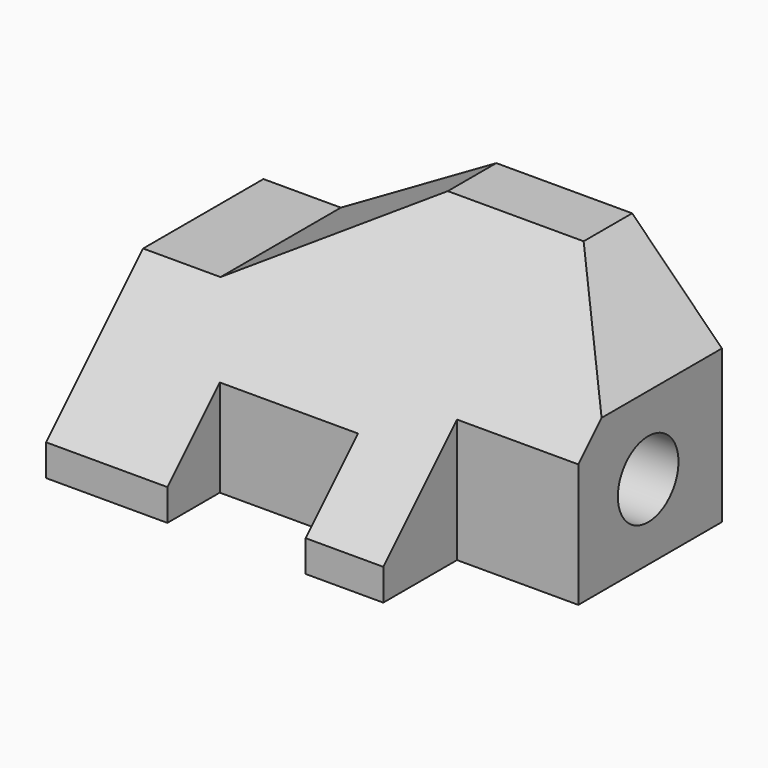
from build123d import *

# Parameters (mm, degrees)
F1_DEPTH = 96.012
F3_D     = 15.875
F3_DEPTH = 31.75
F3_TIP   = 4.7693311635
F5_DEPTH = 56.897
F6_W     = 28.956
F6_H     = 13.716
F6_W_2   = 25.4
F6_H_2   = 19.304
F7_DEPTH = 50.801
F9_DEPTH = 56.897


with BuildPart() as f1:
    # F0 (on Right) → F1 (new body)
    with BuildSketch(Plane.YZ):
        Polygon((55.828121284, -27.6095795721), (55.828121284, 23.1904204279), (43.128121284, 23.1904204279), (-1.067878716, -21.0055795721), (-1.067878716, -27.6095795721), align=None)
    extrude(amount=F1_DEPTH)

    # F3
    with Locations(Plane.YZ.offset(96.012)):
        with Locations((36.524121284, -11.8615795721)):
            Hole(F3_D / 2, depth=F3_DEPTH)
            with Locations((0, 0, -(F3_DEPTH + F3_TIP / 2))):  # 118° drill point
                Cone(0, F3_D / 2, F3_TIP, mode=Mode.SUBTRACT)

    # F4 (on face) → F5 (cut, through all)
    with BuildSketch(Plane(origin=(0, 55.828121284, 0), x_dir=(-1, 0, 0), z_dir=(0, 1, 0))):
        Polygon((-96.012, 4.3944204279), (-77.216, 23.1904204279), (-96.012, 23.1904204279), align=None)
    extrude(amount=-F5_DEPTH, mode=Mode.SUBTRACT)

    # F6 (on face) → F7 (cut, through all)
    with BuildSketch(Plane(origin=(0, 0, -27.6095795721), x_dir=(1, 0, 0), z_dir=(0, 0, -1))):
        with Locations((39.878, -5.790121284)):
            Rectangle(F6_W, F6_H)
        with Locations((83.312, -8.584121284)):
            Rectangle(F6_W_2, F6_H_2)
    extrude(amount=-F7_DEPTH, mode=Mode.SUBTRACT)

    # F8 (on face) → F9 (cut, through all)
    with BuildSketch(Plane(origin=(0, 55.828121284, 0), x_dir=(-1, 0, 0), z_dir=(0, 1, 0))):
        Polygon((-16.2123730209, 4.3944204279), (0, 4.3944204279), (0, 23.1904204279), (-48.768, 23.1904204279), align=None)
    extrude(amount=-F9_DEPTH, mode=Mode.SUBTRACT)


solid = f1.part
